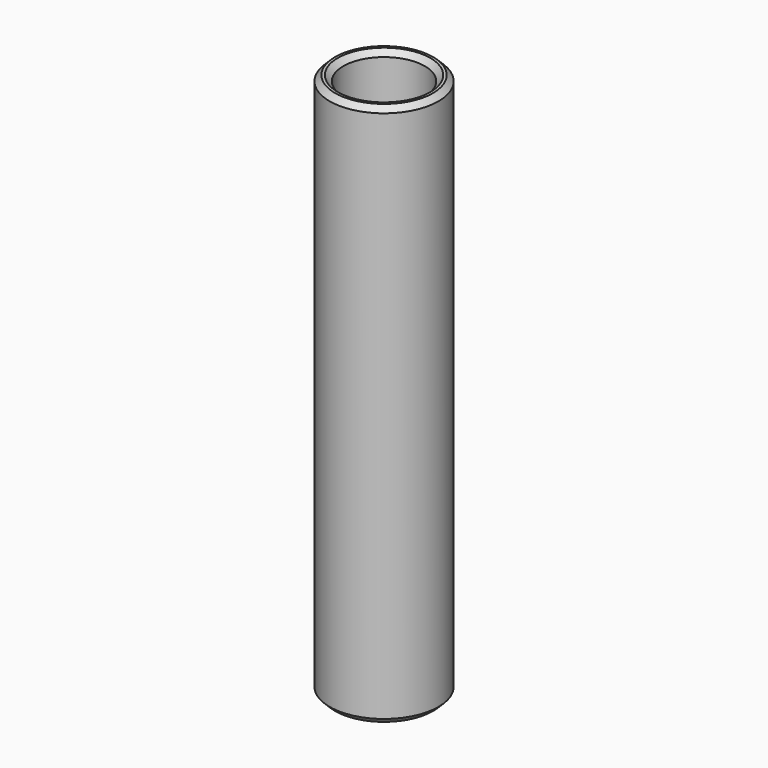
from build123d import *

# Parameters (mm, degrees)
F0_R     = 6.35
F0_R_2   = 4.7625
F1_DEPTH = 63.5
F2_SIZE  = 0.635


with BuildPart() as f1:
    # F0 (on Top) → F1 (new body)
    with BuildSketch(Plane.XY):
        Circle(F0_R)
        Circle(F0_R_2, mode=Mode.SUBTRACT)
    extrude(amount=F1_DEPTH)

    # F2
    f2_edges = [f1.edges().sort_by_distance(p)[0] for p in [
        (6.35, 0, 31.75),
        (-6.35, 0, 0),
        (-6.35, 0, 63.5),
        (4.7625, 0, 31.75),
        (-4.7625, 0, 0),
        (-4.7625, 0, 63.5),
    ]]
    chamfer(f2_edges, length=F2_SIZE)


solid = f1.part
